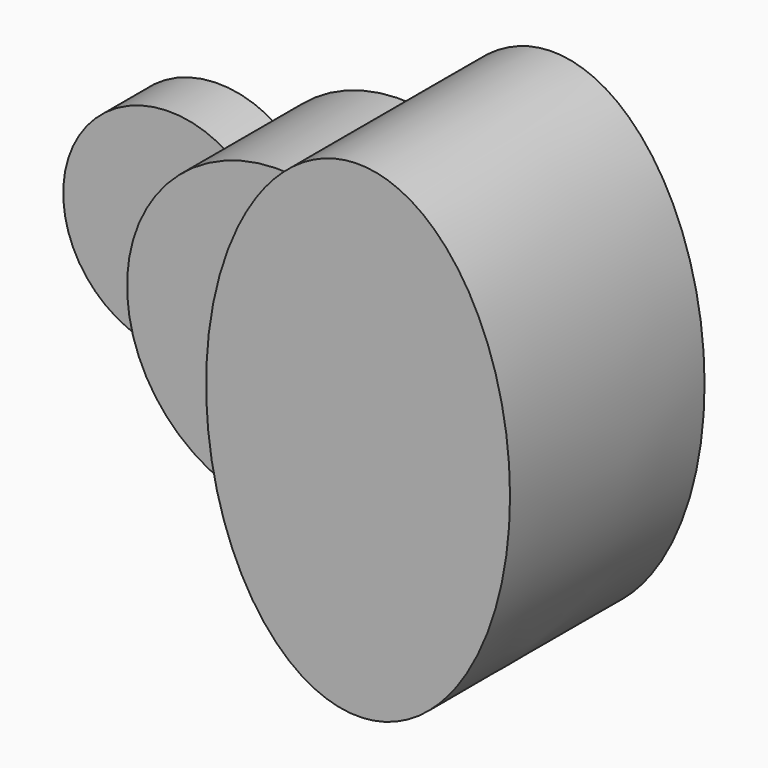
from build123d import *

# Parameters (mm, degrees)
F1_DEPTH = 25.4
F2_DEPTH = 63.5
F3_DEPTH = 101.6


with BuildPart() as f1:
    # F0 (on Front) → F1 (new body)
    with BuildSketch(Plane.XZ):
        with BuildLine():
            ThreePointArc((-51.59375, -37.0180356169), (-60.4501990278, -19.4428248333), (-63.5, 0))
            ThreePointArc((-63.5, 0), (-60.4501990278, 19.4428248333), (-51.59375, 37.0180356169))
            ThreePointArc((-51.59375, 37.0180356169), (-120.65, 0), (-51.59375, -37.0180356169))
        make_face()
    extrude(amount=F1_DEPTH)


with BuildPart() as f2:
    # F0 (on Front) → F2 (new body)
    with BuildSketch(Plane.XZ):
        with BuildLine():
            Line((-31.75, 0), (0, 0))
            add(Edge.make_bspline(
                [(13.2439655959, 62.1035214404), (0, 34.6669399309), (0, 0)],
                knots=[0.9131508081, 0.9131508081, 0.9131508081, 1.5707963268, 1.5707963268, 1.5707963268], degree=2, weights=[1, 0.9464231645, 1]))
            ThreePointArc((13.2439655959, 62.1035214404), (-22.9128106244, 59.2220660674), (-51.59375, 37.0180356169))
            ThreePointArc((-51.59375, 37.0180356169), (-37.0237934934, 21.0006510316), (-31.75, 0))
        make_face()
        with BuildLine():
            Line((-63.5, 0), (-31.75, 0))
            ThreePointArc((-31.75, 0), (-37.0237934934, 21.0006510316), (-51.59375, 37.0180356169))
            ThreePointArc((-51.59375, 37.0180356169), (-60.4501990278, 19.4428248333), (-63.5, 0))
        make_face()
        with BuildLine():
            ThreePointArc((-51.59375, -37.0180356169), (-37.0237934934, -21.0006510316), (-31.75, 0))
            Line((-31.75, 0), (-63.5, 0))
            ThreePointArc((-63.5, 0), (-60.4501990278, -19.4428248333), (-51.59375, -37.0180356169))
        make_face()
        with BuildLine():
            add(Edge.make_bspline(
                [(0, 0), (0, -34.6669399309), (13.2439655959, -62.1035214404)],
                knots=[1.5707963268, 1.5707963268, 1.5707963268, 2.2284418454, 2.2284418454, 2.2284418454], degree=2, weights=[1, 0.9464231645, 1]))
            Line((0, 0), (-31.75, 0))
            ThreePointArc((-31.75, 0), (-37.0237934934, -21.0006510316), (-51.59375, -37.0180356169))
            ThreePointArc((-51.59375, -37.0180356169), (-22.9128106244, -59.2220660674), (13.2439655959, -62.1035214404))
        make_face()
    extrude(amount=F2_DEPTH)


with BuildPart() as f3:
    # F0 (on Front) → F3 (new body)
    with BuildSketch(Plane.XZ):
        with BuildLine():
            ThreePointArc((63.5, 0), (49.3621404284, -39.9453262889), (13.2439655959, -62.1035214404))
            add(Edge.make_bspline(
                [(13.2439655959, -62.1035214404), (75.5537087854, -191.1861844445), (120.4955415237, -44.7930922222), (165.437374262, 101.6), (63.5, 101.6)],
                knots=[2.2284418454, 2.2284418454, 2.2284418454, 4.2558135763, 4.2558135763, 6.2831853072, 6.2831853072, 6.2831853072], degree=2, weights=[1, 0.5287358074, 1, 0.5287358074, 1]))
            Line((63.5, 101.6), (63.5, 0))
        make_face()
        with BuildLine():
            add(Edge.make_bspline(
                [(63.5, 101.6), (32.3093875408, 101.6), (13.2439655959, 62.1035214404)],
                knots=[0, 0, 0, 0.9131508081, 0.9131508081, 0.9131508081], degree=2, weights=[1, 0.8975675831, 1]))
            ThreePointArc((13.2439655959, 62.1035214404), (49.3621404284, 39.9453262889), (63.5, 0))
            Line((63.5, 0), (63.5, 101.6))
        make_face()
        with BuildLine():
            add(Edge.make_bspline(
                [(13.2439655959, 62.1035214404), (0, 34.6669399309), (0, 0)],
                knots=[0.9131508081, 0.9131508081, 0.9131508081, 1.5707963268, 1.5707963268, 1.5707963268], degree=2, weights=[1, 0.9464231645, 1]))
            add(Edge.make_bspline(
                [(0, 0), (0, -34.6669399309), (13.2439655959, -62.1035214404)],
                knots=[1.5707963268, 1.5707963268, 1.5707963268, 2.2284418454, 2.2284418454, 2.2284418454], degree=2, weights=[1, 0.9464231645, 1]))
            ThreePointArc((13.2439655959, -62.1035214404), (49.3621404284, -39.9453262889), (63.5, 0))
            ThreePointArc((63.5, 0), (49.3621404284, 39.9453262889), (13.2439655959, 62.1035214404))
        make_face()
    extrude(amount=F3_DEPTH)


solid = Compound([f1.part, f2.part, f3.part])
